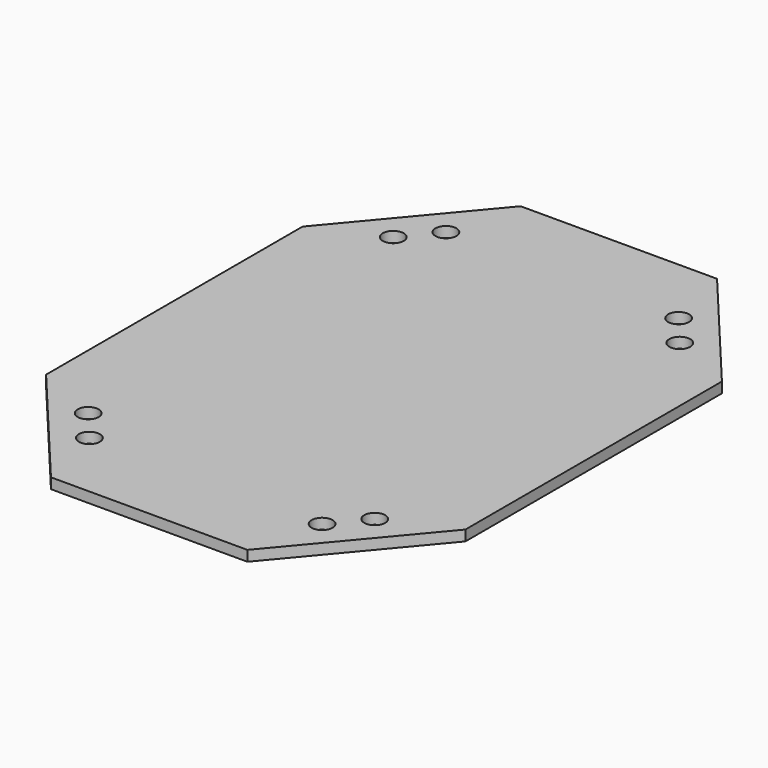
from build123d import *

# Parameters (mm, degrees)
F1_DEPTH = 3.175
F2_R     = 3.175
F3_DEPTH = 25.4


with BuildPart() as f1:
    # F0 (on Top) → F1 (new body)
    with BuildSketch(Plane.XY):
        Polygon((29.745836, 88.9), (-29.745836, 88.9), (-63.5, 48.554318), (-63.5, -48.554318), (-29.745836, -88.9), (29.745836, -88.9), (63.5, -48.554318), (63.5, 48.554318), align=None)
    extrude(amount=F1_DEPTH)

    # F2 (on face) → F3 (cut)
    with BuildSketch(Plane.XY.offset(3.175)):
        with Locations((-43.392069, 57.744911)):
            Circle(F2_R)
        with Locations((-35.242826, 67.48554)):
            Circle(F2_R)
        with Locations((35.242824, 67.485542)):
            Circle(F2_R)
        with Locations((43.392067, 57.744913)):
            Circle(F2_R)
        with Locations((43.392069, -57.744911)):
            Circle(F2_R)
        with Locations((35.242826, -67.48554)):
            Circle(F2_R)
        with Locations((-35.242826, -67.48554)):
            Circle(F2_R)
        with Locations((-43.392069, -57.744911)):
            Circle(F2_R)
    extrude(amount=-F3_DEPTH, mode=Mode.SUBTRACT)


solid = f1.part
